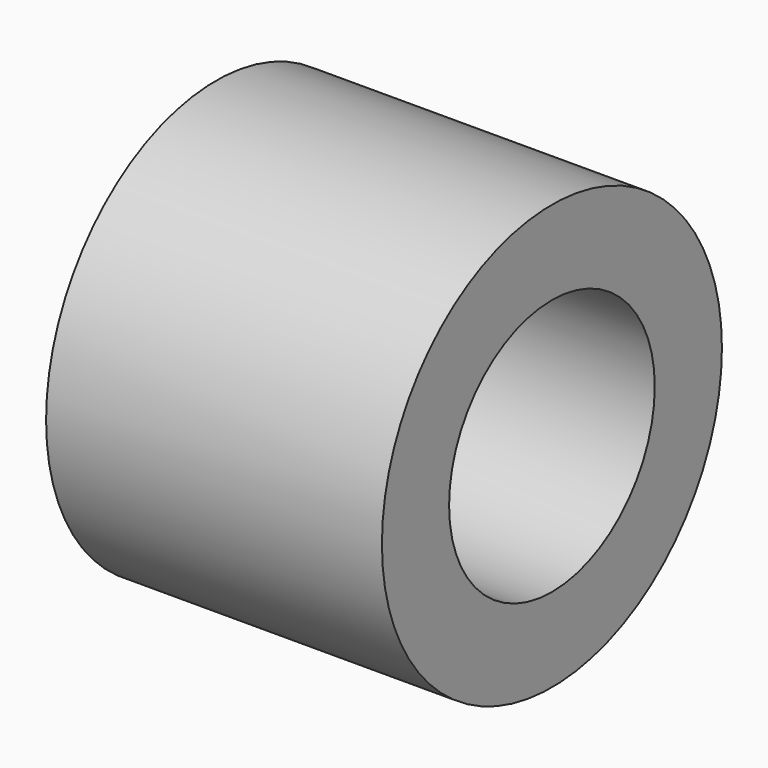
from build123d import *

# Parameters (mm, degrees)
F1_R     = 16.071401
F2_DEPTH = 25.4
F0_R     = 9.721401
F3_DEPTH = 25.4


with BuildPart() as f2:
    # F1 (on Right) → F2 (new body)
    with BuildSketch(Plane.YZ):
        Circle(F1_R)
    extrude(amount=F2_DEPTH)

    # F0 (on Right) → F3 (cut)
    with BuildSketch(Plane.YZ):
        Circle(F0_R)
    extrude(amount=F3_DEPTH, mode=Mode.SUBTRACT)


solid = f2.part
